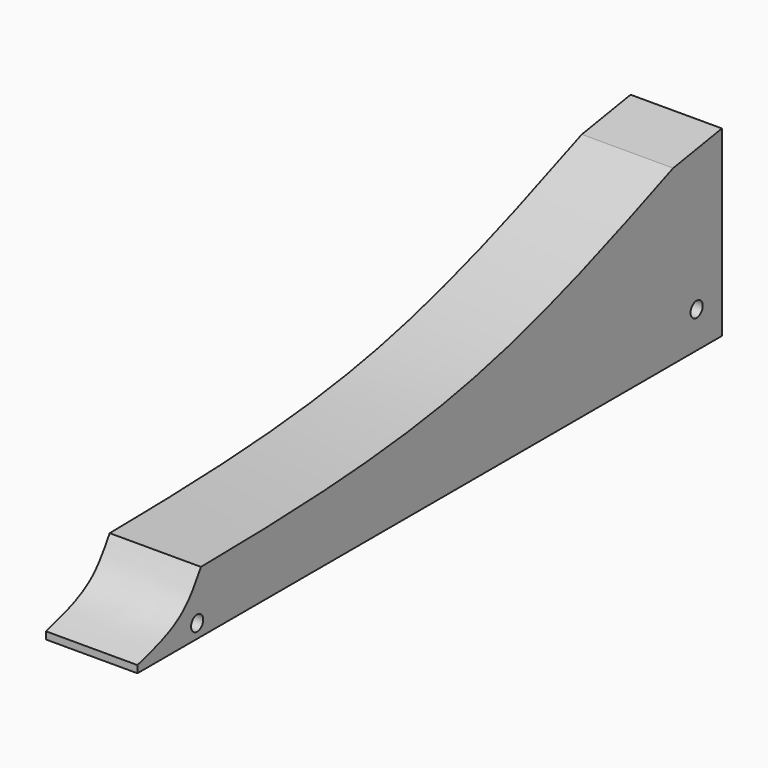
from build123d import *

# Parameters (mm, degrees)
F1_DEPTH = 19.05
F3_D     = 25.4
F3_DEPTH = 63.5
F3_TIP   = 7.6309298617
F5_DEPTH = 50.4981949925
F7_DEPTH = 40.6211540103
F9_D     = 6.35
F11_D    = 6.35


with BuildPart() as f1:
    # F0 (on Right) → F1 (new body, symmetric)
    with BuildSketch(Plane.YZ):
        Polygon((242.8656616081, 21.4498834579), (-61.9343383919, -29.3501165421), (-61.9343383919, -54.7501165421), (242.8656616081, -54.7501165421), align=None)
    extrude(amount=F1_DEPTH, both=True)

    # F3
    with Locations(Plane(origin=(0, 242.8656616081, 0), x_dir=(-1, 0, 0), z_dir=(0, 1, 0))):
        with Locations((-0.3272963222, -16.9025734067)):
            Hole(F3_D / 2, depth=F3_DEPTH)
            with Locations((0, 0, -(F3_DEPTH + F3_TIP / 2))):  # 118° drill point
                Cone(0, F3_D / 2, F3_TIP, mode=Mode.SUBTRACT)

    # F4 (on face) → F5 (cut)
    with BuildSketch(Plane(origin=(-19.05, 0, 0), x_dir=(0, -1, 0), z_dir=(-1, 0, 0))):
        with BuildLine():
            Line((61.9343383919, -29.3501165421), (-217.434808525, 17.2114079441))
            add(Edge.make_bspline(
                [(-217.434808525, 17.2114079441), (-181.7031574212, 2.796838546), (-103.7756395376, -28.6400418614), (3.7252200382, -29.1006886434), (61.9343383919, -29.3501165421)],
                knots=[0, 0, 0, 0, 0.4585241666, 1, 1, 1, 1], degree=3))
        make_face()
    extrude(amount=-F5_DEPTH, mode=Mode.SUBTRACT)

    # F6 (on face) → F7 (cut)
    with BuildSketch(Plane(origin=(-19.05, 0, 0), x_dir=(0, -1, 0), z_dir=(-1, 0, 0))):
        with BuildLine():
            add(Edge.make_bspline(
                [(61.9343383919, -51.728207618), (53.7275699574, -49.4475771186), (38.4988179682, -45.1515261487), (31.8427817105, -34.270455265), (28.7836416426, -29.1453393273)],
                knots=[0, 0, 0, 0, 0.5369777676, 1, 1, 1, 1], degree=3))
            Line((61.9343383919, -51.728207618), (61.9343383919, -29.3501165421))
            add(Edge.make_bspline(
                [(28.7836416426, -29.1453393273), (39.7941135042, -29.2552449401), (50.8642259332, -29.3026807628), (61.9343383919, -29.3501165421)],
                knots=[0.8970230345, 0.8970230345, 0.8970230345, 0.8970230345, 1, 1, 1, 1], degree=3))
        make_face()
    extrude(amount=-F7_DEPTH, mode=Mode.SUBTRACT)

    # F9 (through all)
    with Locations(Plane(origin=(-19.05, 0, 0), x_dir=(0, -1, 0), z_dir=(-1, 0, 0))):
        with Locations((30.7875052094, -48.9864274859)):
            Hole(F9_D / 2)

    # F11 (through all)
    with Locations(Plane(origin=(-19.05, 0, 0), x_dir=(0, -1, 0), z_dir=(-1, 0, 0))):
        with Locations((-229.6800166368, -39.5821034908)):
            Hole(F11_D / 2)


solid = f1.part
